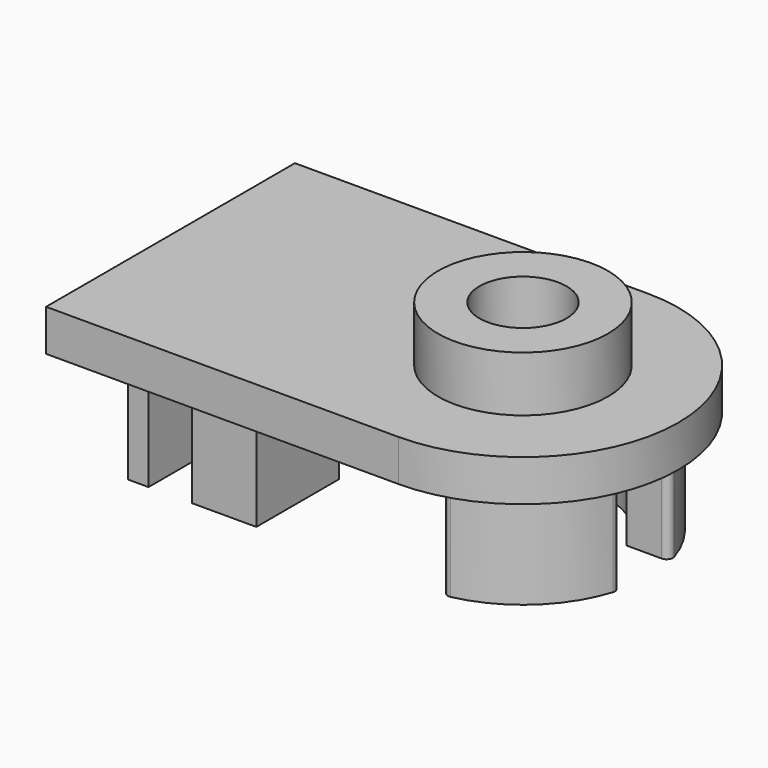
from build123d import *

# Parameters (mm, degrees)
F0_R     = 2.1
F1_DEPTH = 2
F2_R     = 4.1
F2_R_2   = 2.1
F3_DEPTH = 2.67
F4_W     = 1
F4_H     = 4.975
F4_W_2   = 3.1
F5_DEPTH = 5


with BuildPart() as f1:
    # F0 (on Top) → F1 (new body)
    with BuildSketch(Plane.XY):
        with BuildLine():
            Line((0, 15), (0, 0))
            Line((0, 0), (17, 0))
            ThreePointArc((17, 0), (24.5, 7.5), (17, 15))
            Line((17, 15), (0, 15))
        make_face()
        with Locations((17, 7.5)):
            Circle(F0_R, mode=Mode.SUBTRACT)
    extrude(amount=F1_DEPTH)

    # F2 (on face) → F3 (join)
    with BuildSketch(Plane.XY.offset(2)):
        with Locations((17, 7.5)):
            Circle(F2_R)
        with Locations((17, 7.5)):
            Circle(F2_R_2, mode=Mode.SUBTRACT)
    extrude(amount=F3_DEPTH)

    # F4 (on face) → F5 (join)
    with BuildSketch(Plane(origin=(0, 0, 0), x_dir=(1, 0, 0), z_dir=(0, 0, -1))):
        with Locations((3.3, -3.9125)):
            Rectangle(F4_W, F4_H)
        with Locations((7.45, -3.9125)):
            Rectangle(F4_W_2, F4_H)
        with BuildLine():
            ThreePointArc((22.529693, -6.05), (22.771721, -5.927264), (22.815711, -5.659483))
            ThreePointArc((22.815711, -5.659483), (21.102936, -2.986031), (18.278593, -1.535505))
            ThreePointArc((18.278593, -1.535505), (18.027117, -1.595534), (17.915711, -1.828841))
            Line((17.915711, -1.828841), (17.915711, -3.503567))
            ThreePointArc((17.915711, -3.503567), (19.695084, -4.410256), (20.835036, -6.05))
            Line((20.835036, -6.05), (22.529693, -6.05))
        make_face()
        with BuildLine():
            ThreePointArc((17.915711, -13.171159), (18.027117, -13.404466), (18.278593, -13.464495))
            ThreePointArc((18.278593, -13.464495), (21.102936, -12.013969), (22.815711, -9.340517))
            ThreePointArc((22.815711, -9.340517), (22.771721, -9.072736), (22.529693, -8.95))
            Line((22.529693, -8.95), (20.835036, -8.95))
            ThreePointArc((20.835036, -8.95), (19.695084, -10.589744), (17.915711, -11.496433))
            Line((17.915711, -11.496433), (17.915711, -13.171159))
        make_face()
        with Locations((3.3, -11.0875)):
            Rectangle(F4_W, F4_H)
        with Locations((7.45, -11.0875)):
            Rectangle(F4_W_2, F4_H)
    extrude(amount=F5_DEPTH)


solid = f1.part
